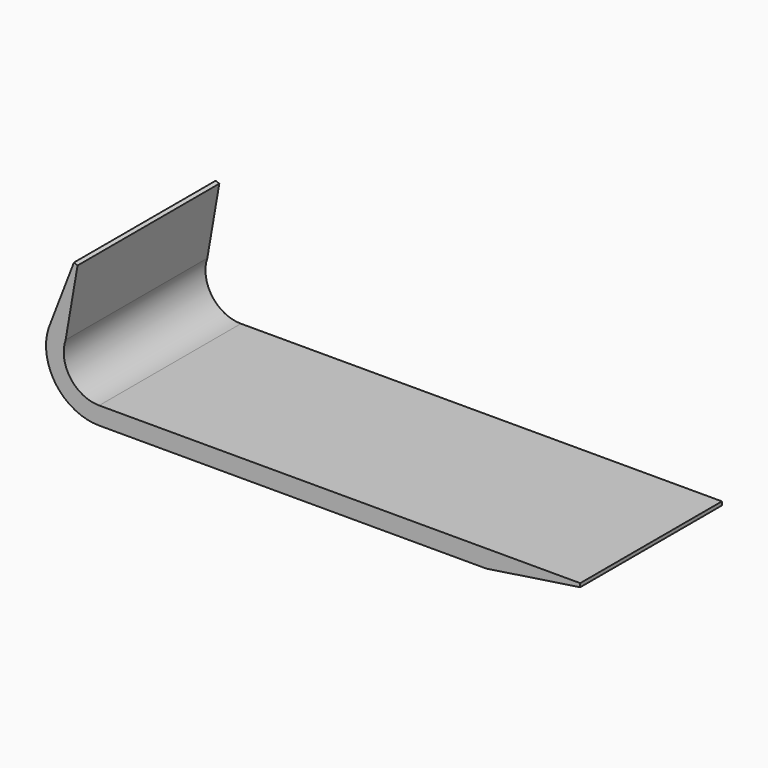
from build123d import *

# Parameters (mm, degrees)
F1_DEPTH = 50


with BuildPart() as f1:
    # F0 (on Front) → F1 (new body)
    with BuildSketch(Plane.XZ):
        with BuildLine():
            Line((74.996538, 5), (-60.7691, 5))
            ThreePointArc((-60.7691, 5), (-68.891043, 9.166131), (-70.245571, 18.193194))
            Line((-70.245571, 18.193194), (-66.865974, 37.797697))
            Line((-66.865974, 37.797697), (-67.901136, 38.195187))
            Line((-67.901136, 38.195187), (-75.070507, 19.524351))
            ThreePointArc((-75.070507, 19.524351), (-72.870035, 6.136176), (-60.7691, 0))
            Line((-60.7691, 0), (48.496094, 0))
            Line((48.496094, 0), (74.996538, 3.974715))
            Line((74.996538, 3.974715), (74.996538, 5))
        make_face()
    extrude(amount=F1_DEPTH)


solid = f1.part
